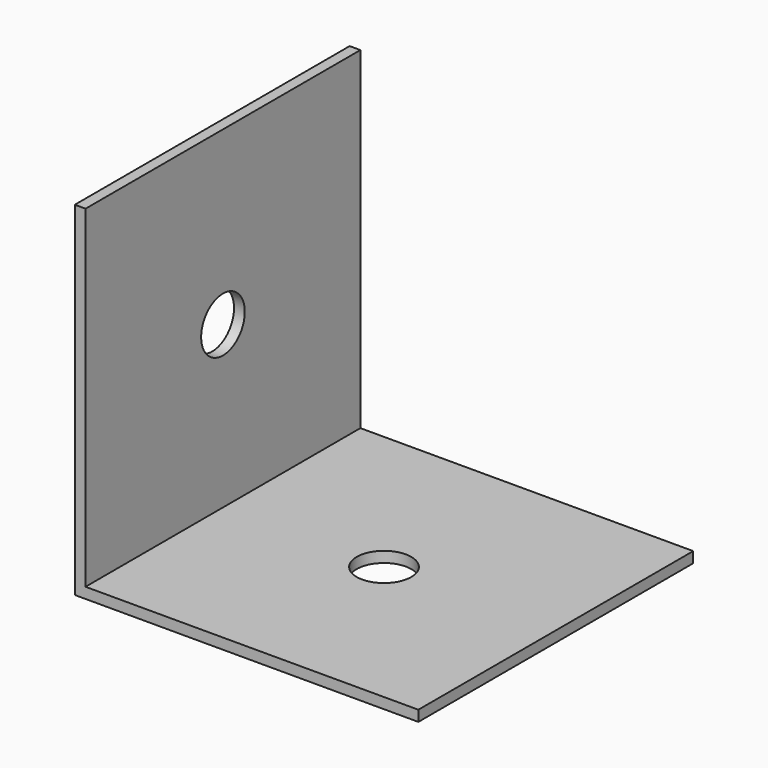
from build123d import *

# Parameters (mm, degrees)
F1_DEPTH = 32
F2_R     = 2.54
F3_DEPTH = 25.4
F4_R     = 2.54
F5_DEPTH = 25.4


with BuildPart() as f1:
    # F0 (on Front) → F1 (new body)
    with BuildSketch(Plane.XZ):
        Polygon((-15, 15.75), (-16, 15.75), (-16, -16.25), (16, -16.25), (16, -15.25), (-15, -15.25), align=None)
    extrude(amount=F1_DEPTH)

    # F2 (on face) → F3 (cut)
    with BuildSketch(Plane(origin=(-16, 0, 0), x_dir=(0, -1, 0), z_dir=(-1, 0, 0))):
        with Locations((16, -0.25)):
            Circle(F2_R)
    extrude(amount=-F3_DEPTH, mode=Mode.SUBTRACT)

    # F4 (on face) → F5 (cut)
    with BuildSketch(Plane(origin=(0, 0, -16.25), x_dir=(1, 0, 0), z_dir=(0, 0, -1))):
        with Locations((0, 16)):
            Circle(F4_R)
    extrude(amount=-F5_DEPTH, mode=Mode.SUBTRACT)


solid = f1.part
